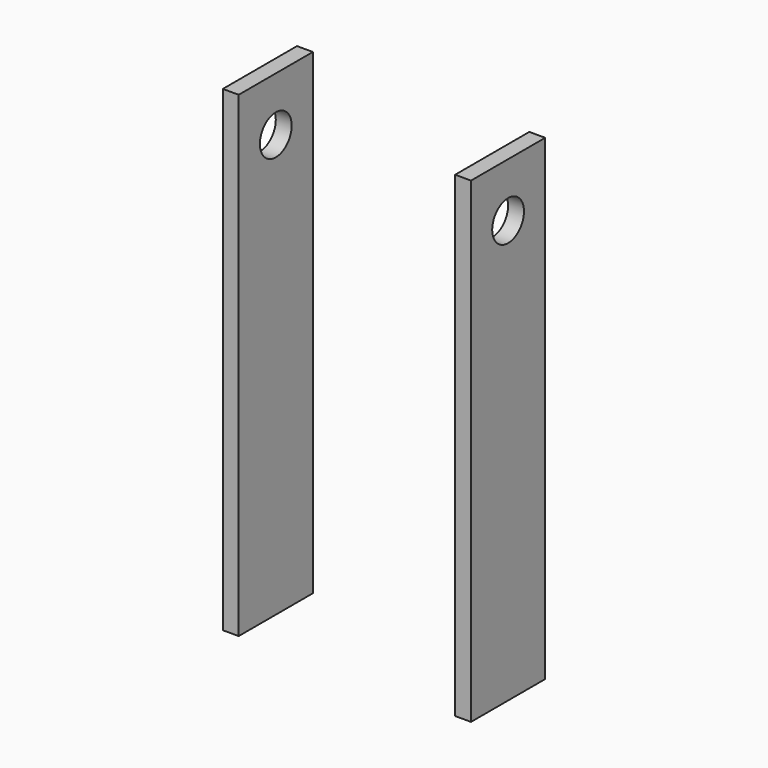
from build123d import *

# Parameters (mm, degrees)
F0_W     = 2.54
F0_H     = 76.2
F1_DEPTH = 14.82815
F2_R     = 3.175
F3_DEPTH = 50.97066


with BuildPart() as f1:
    # F0 (on Front) → F1 (new body)
    with BuildSketch(Plane.XZ):
        with Locations((-11.661849, 1.721145)):
            Rectangle(F0_W, F0_H)
        with Locations((25.483701, 1.721145)):
            Rectangle(F0_W, F0_H)
    extrude(amount=F1_DEPTH)

    # F2 (on face) → F3 (cut)
    with BuildSketch(Plane.YZ.offset(26.753701)):
        with Locations((-7.414075, 31.175798)):
            Circle(F2_R)
    extrude(amount=-F3_DEPTH, mode=Mode.SUBTRACT)


solid = f1.part
